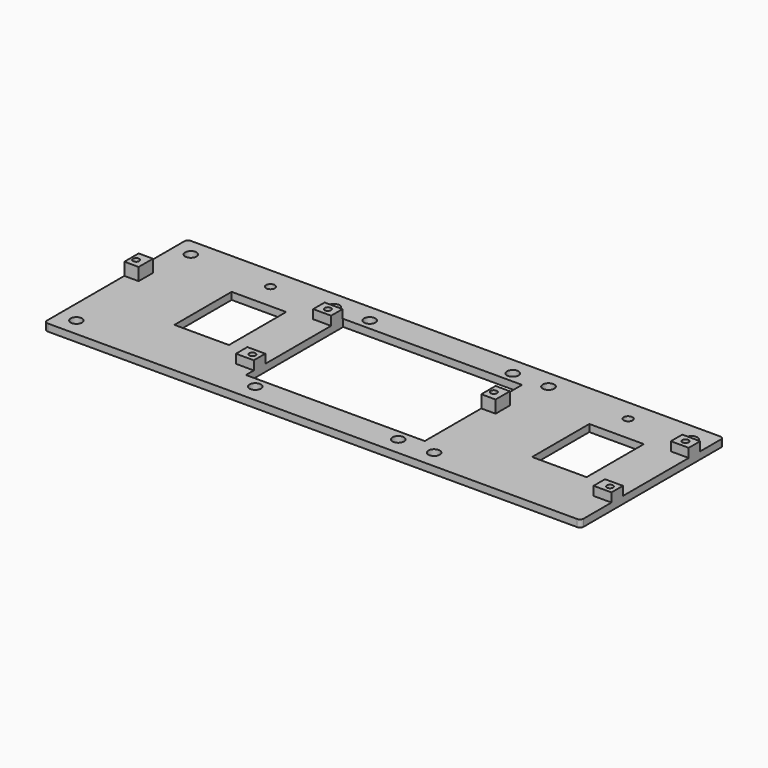
from build123d import *

# Parameters (mm, degrees)
SKETCH_W        = 150
SKETCH_H        = 50
SKETCH_R        = 1.6
SKETCH_R_2      = 1.23
SKETCH_W_2      = 50
SKETCH_H_2      = 34
SKETCH_W_3      = 15.25
SKETCH_H_3      = 20
PAD_DEPTH       = 2
SKETCH001_W     = 5
SKETCH001_H     = 4
SKETCH001_W_2   = 4
SKETCH001_H_2   = 5
PAD001_DEPTH    = 3.5
SKETCH002_R     = 0.875
POCKET_DEPTH    = 5.5
SKETCH003_W     = 5
SKETCH003_H     = 4
POCKET001_DEPTH = 1
FILLET_R        = 1


with BuildPart() as part:
    # Sketch → Pad (new body)
    with BuildSketch(Plane.XY):
        with Locations((75, 25)):
            Rectangle(SKETCH_W, SKETCH_H)
        with Locations((5, 45)):
            Circle(SKETCH_R, mode=Mode.SUBTRACT)
        with Locations((5, 5)):
            Circle(SKETCH_R, mode=Mode.SUBTRACT)
        with Locations((45, 45)):
            Circle(SKETCH_R, mode=Mode.SUBTRACT)
        with Locations((55, 45)):
            Circle(SKETCH_R, mode=Mode.SUBTRACT)
        with Locations((55, 5)):
            Circle(SKETCH_R, mode=Mode.SUBTRACT)
        with Locations((95, 45)):
            Circle(SKETCH_R, mode=Mode.SUBTRACT)
        with Locations((105, 45)):
            Circle(SKETCH_R, mode=Mode.SUBTRACT)
        with Locations((95, 5)):
            Circle(SKETCH_R, mode=Mode.SUBTRACT)
        with Locations((105, 5)):
            Circle(SKETCH_R, mode=Mode.SUBTRACT)
        with Locations((145, 45)):
            Circle(SKETCH_R, mode=Mode.SUBTRACT)
        with Locations((128.1, 43.95)):
            Circle(SKETCH_R_2, mode=Mode.SUBTRACT)
        with Locations((28.1, 43.95)):
            Circle(SKETCH_R_2, mode=Mode.SUBTRACT)
        with Locations((75, 25)):
            Rectangle(SKETCH_W_2, SKETCH_H_2, mode=Mode.SUBTRACT)
        with Locations((30.625, 26.75)):
            Rectangle(SKETCH_W_3, SKETCH_H_3, mode=Mode.SUBTRACT)
        with Locations((130.625, 26.75)):
            Rectangle(SKETCH_W_3, SKETCH_H_3, mode=Mode.SUBTRACT)
    extrude(amount=PAD_DEPTH)

    # Sketch001 (on Face30 of Pad) → Pad001 (join)
    with BuildSketch(Plane.XY.offset(2)):
        with Locations((47.5, 39.75)):
            Rectangle(SKETCH001_W, SKETCH001_H)
        with Locations((47.5, 12.75)):
            Rectangle(SKETCH001_W, SKETCH001_H)
        with Locations((2, 30.5)):
            Rectangle(SKETCH001_W_2, SKETCH001_H_2)
        with Locations((147.5, 39.75)):
            Rectangle(SKETCH001_W, SKETCH001_H)
        with Locations((147.5, 12.75)):
            Rectangle(SKETCH001_W, SKETCH001_H)
        with Locations((102, 30.25)):
            Rectangle(SKETCH001_W_2, SKETCH001_H_2)
    extrude(amount=PAD001_DEPTH)

    # Sketch002 (on Face58 of Pad001) → Pocket (cut)
    with BuildSketch(Plane.XY.offset(5.5)):
        with Locations((47.5, 39.75)):
            Circle(SKETCH002_R)
        with Locations((48, 12.75)):
            Circle(SKETCH002_R)
        with Locations((101.5, 30.25)):
            Circle(SKETCH002_R)
        with Locations((1.5, 30.25)):
            Circle(SKETCH002_R)
        with Locations((147.5, 39.75)):
            Circle(SKETCH002_R)
        with Locations((148, 12.75)):
            Circle(SKETCH002_R)
    extrude(amount=-POCKET_DEPTH, mode=Mode.SUBTRACT)

    # Sketch003 (on Face62 of Pocket) → Pocket001 (cut)
    with BuildSketch(Plane.XY.offset(5.5)):
        with Locations((47.5, 39.75)):
            Rectangle(SKETCH003_W, SKETCH003_H)
        with Locations((47.5, 12.75)):
            Rectangle(SKETCH003_W, SKETCH003_H)
        with Locations((147.5, 12.75)):
            Rectangle(SKETCH003_W, SKETCH003_H)
        with Locations((147.5, 39.75)):
            Rectangle(SKETCH003_W, SKETCH003_H)
    extrude(amount=-POCKET001_DEPTH, mode=Mode.SUBTRACT)

    # Fillet
    fillet_edges = [part.edges().sort_by_distance(p)[0] for p in [
        (0, 0, 1),
        (0, 50, 1),
        (150, 0, 1),
        (150, 50, 1),
    ]]
    fillet(fillet_edges, radius=FILLET_R)


solid = part.part
